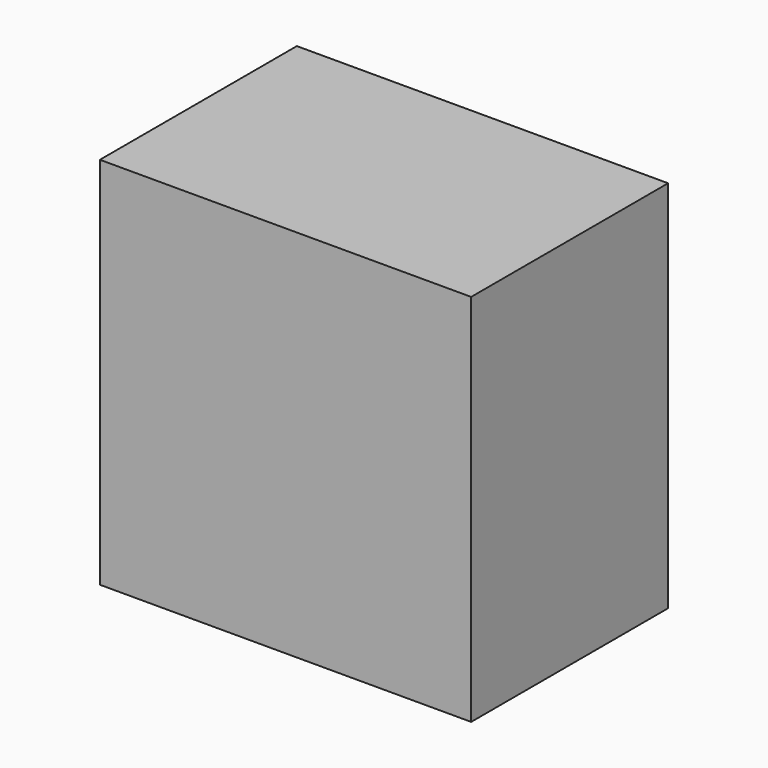
from build123d import *

# Parameters (mm, degrees)
F1_START = 29.98554
F0_W     = 76.1104375124
F0_H     = 76.7021179199
F1_DEPTH = 50.46573


with BuildPart() as f1:
    # F0 (on Front) → F1 (new body)
    with BuildSketch(Plane.XZ.offset(F1_START)):
        with Locations((38.0552187562, 38.35105896)):
            Rectangle(F0_W, F0_H)
    extrude(amount=F1_DEPTH)


solid = f1.part
